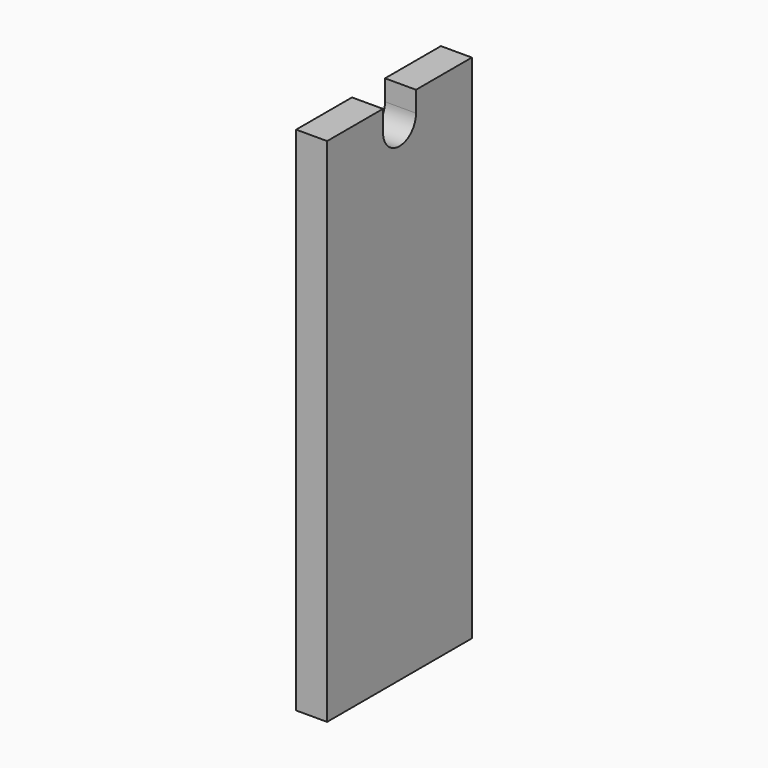
from build123d import *

# Parameters (mm, degrees)
F1_DEPTH = 19.05


with BuildPart() as f1:
    # F0 (on Right) → F1 (new body)
    with BuildSketch(Plane.YZ):
        with BuildLine():
            Line((55.626, -157.226), (55.626, 157.226))
            Line((55.626, 157.226), (12.7, 157.226))
            Line((12.7, 157.226), (12.7, 144.526))
            ThreePointArc((12.7, 144.526), (0, 131.826), (-12.7, 144.526))
            Line((-12.7, 144.526), (-12.7, 157.226))
            Line((-12.7, 157.226), (-55.626, 157.226))
            Line((-55.626, 157.226), (-55.626, -157.226))
            Line((-55.626, -157.226), (55.626, -157.226))
        make_face()
    extrude(amount=F1_DEPTH)


solid = f1.part
